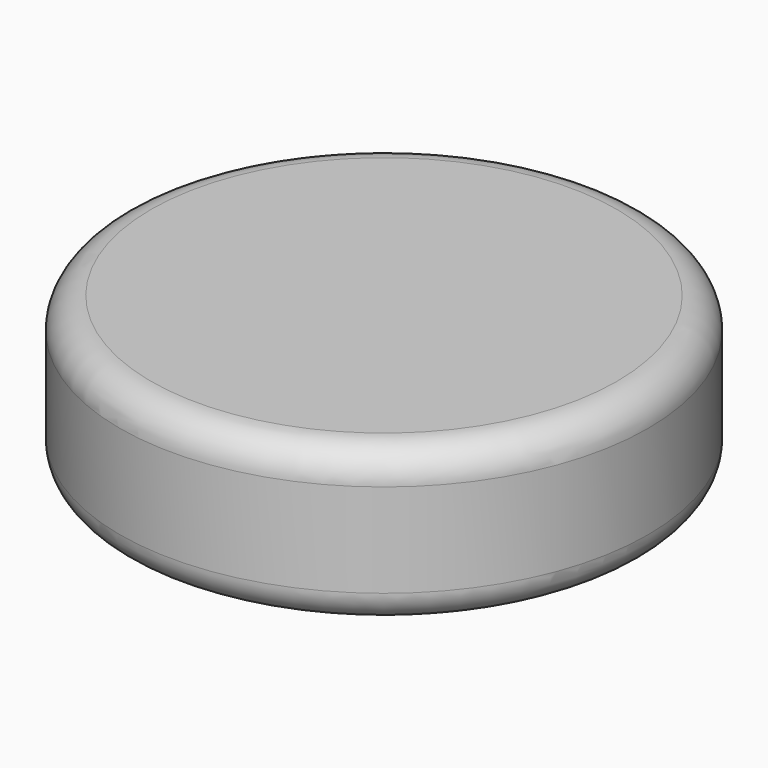
from build123d import *

# Parameters (mm, degrees)
F0_R     = 42.997481
F1_DEPTH = 25.4
F2_R     = 5.08


with BuildPart() as f1:
    # F0 (on Top) → F1 (new body)
    with BuildSketch(Plane.XY):
        with Locations((-24.474759, 9.13972)):
            Circle(F0_R)
    extrude(amount=F1_DEPTH)

    # F2
    f2_edges = [f1.edges().sort_by_distance(p)[0] for p in [
        (18.522722, 9.13972, 12.7),
        (-67.472239, 9.13972, 0),
        (-67.472239, 9.13972, 25.4),
    ]]
    fillet(f2_edges, radius=F2_R)


solid = f1.part
